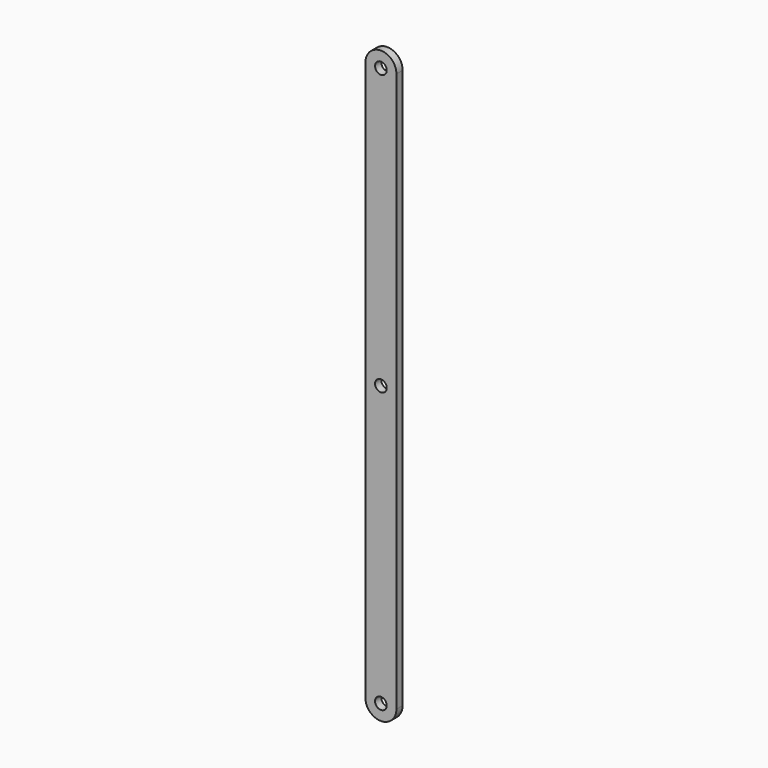
from build123d import *

# Parameters (mm, degrees)
F0_R     = 4.7625
F1_DEPTH = 6.35


with BuildPart() as f1:
    # F0 (on Front) → F1 (new body)
    with BuildSketch(Plane.XZ):
        with BuildLine():
            ThreePointArc((25.4, 0), (12.7, 12.7), (0, 0))
            Line((0, 0), (0, -457.2))
            ThreePointArc((0, -457.2), (12.7, -469.9), (25.4, -457.2))
            Line((25.4, -457.2), (25.4, 0))
        make_face()
        with Locations((12.7, -457.2)):
            Circle(F0_R, mode=Mode.SUBTRACT)
        with Locations((12.7, -228.6)):
            Circle(F0_R, mode=Mode.SUBTRACT)
        with Locations((12.7, 0)):
            Circle(F0_R, mode=Mode.SUBTRACT)
    extrude(amount=F1_DEPTH)


solid = f1.part
